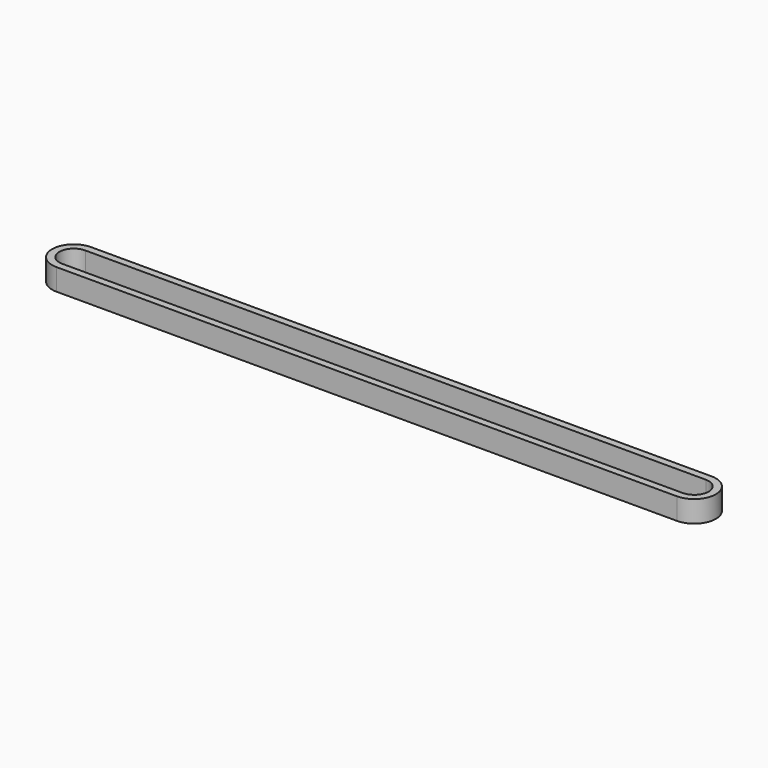
from build123d import *

# Parameters (mm, degrees)
F1_DEPTH = 4.7625


with BuildPart() as f1:
    # F0 (on Top) → F1 (new body)
    with BuildSketch(Plane.XY):
        with BuildLine():
            Line((68.2625, 4.7625), (-68.2625, 4.7625))
            ThreePointArc((-68.2625, 4.7625), (-73.025, 0), (-68.2625, -4.7625))
            Line((-68.2625, -4.7625), (68.2625, -4.7625))
            ThreePointArc((68.2625, -4.7625), (73.025, 0), (68.2625, 4.7625))
        make_face()
        with BuildLine():
            Line((68.2625, -3.175), (-68.2625, -3.175))
            ThreePointArc((-68.2625, -3.175), (-71.4375, 0), (-68.2625, 3.175))
            Line((-68.2625, 3.175), (68.2625, 3.175))
            ThreePointArc((68.2625, 3.175), (71.4375, 0), (68.2625, -3.175))
        make_face(mode=Mode.SUBTRACT)
    extrude(amount=F1_DEPTH)


solid = f1.part
